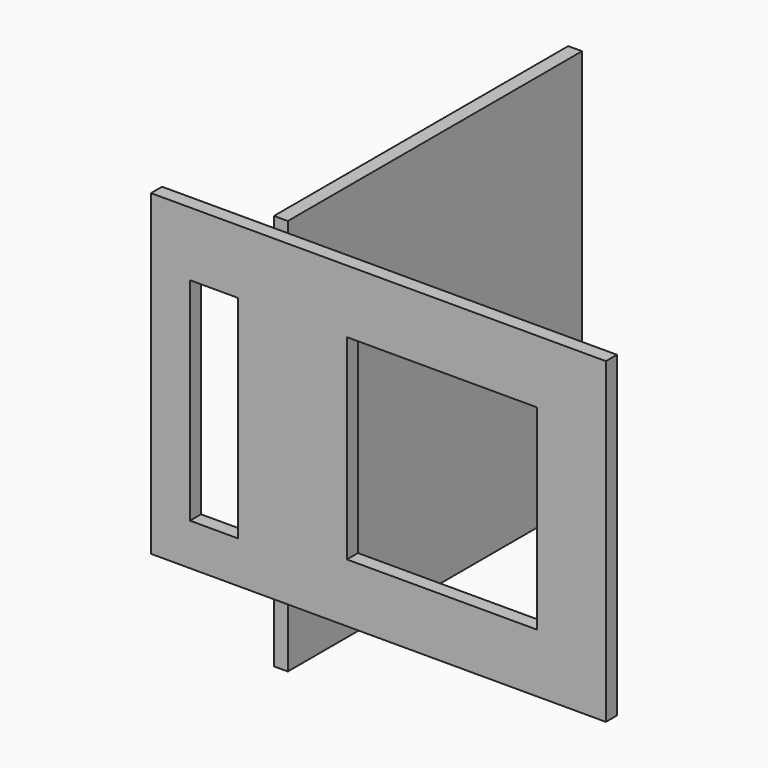
from build123d import *

# Parameters (mm, degrees)
F0_W     = 79.734068
F0_H     = 85.979469
F1_DEPTH = 1.5
F2_W     = 98.621018
F2_H     = 68.855409
F2_W_2   = 10.395367
F2_H_2   = 45.901338
F2_W_3   = 41.199513
F2_H_3   = 42.432174
F3_DEPTH = 3


with BuildPart() as f1:
    # F0 (on Right) → F1 (new body, symmetric)
    with BuildSketch(Plane.YZ):
        with Locations((7.646097, -6.713901)):
            Rectangle(F0_W, F0_H)
    extrude(amount=F1_DEPTH, both=True)


with BuildPart() as f3:
    # F2 (on face) → F3 (new body)
    with BuildSketch(Plane.XZ.offset(32.220937)):
        with Locations((23.550678, -0.471623)):
            Rectangle(F2_W, F2_H)
        with Locations((-12.113891, -2.863155)):
            Rectangle(F2_W_2, F2_H_2, mode=Mode.SUBTRACT)
        with Locations((37.30341, -0.934476)):
            Rectangle(F2_W_3, F2_H_3, mode=Mode.SUBTRACT)
    extrude(amount=F3_DEPTH)


solid = Compound([f1.part, f3.part])
